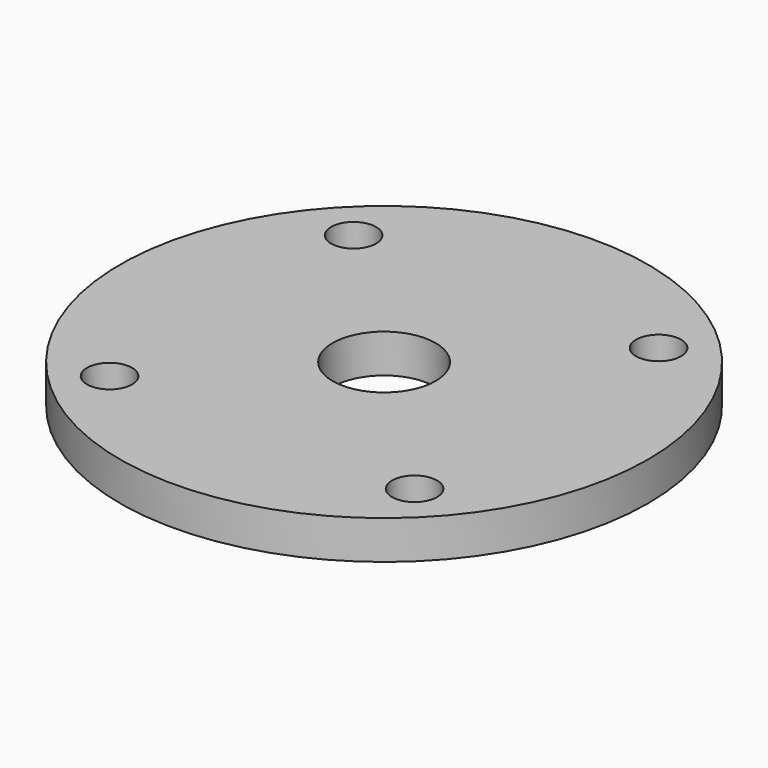
from build123d import *

# Parameters (mm, degrees)
SKETCH_R      = 20.5
PAD_DEPTH     = 3
SKETCH001_R   = 4
SKETCH001_R_2 = 1.75
POCKET_DEPTH  = 3.001


with BuildPart() as part:
    # Sketch → Pad (new body)
    with BuildSketch(Plane.XY):
        with Locations((40, 40)):
            Circle(SKETCH_R)
    extrude(amount=PAD_DEPTH)

    # Sketch001 → Pocket (cut, through all)
    with BuildSketch(Plane.XY):
        with Locations((40, 40)):
            Circle(SKETCH001_R)
        with Locations((28.155961, 28.155961)):
            Circle(SKETCH001_R_2)
        with Locations((51.844039, 28.155961)):
            Circle(SKETCH001_R_2)
        with Locations((51.844039, 51.844039)):
            Circle(SKETCH001_R_2)
        with Locations((28.155961, 51.844039)):
            Circle(SKETCH001_R_2)
    extrude(amount=POCKET_DEPTH, mode=Mode.SUBTRACT)


solid = part.part
